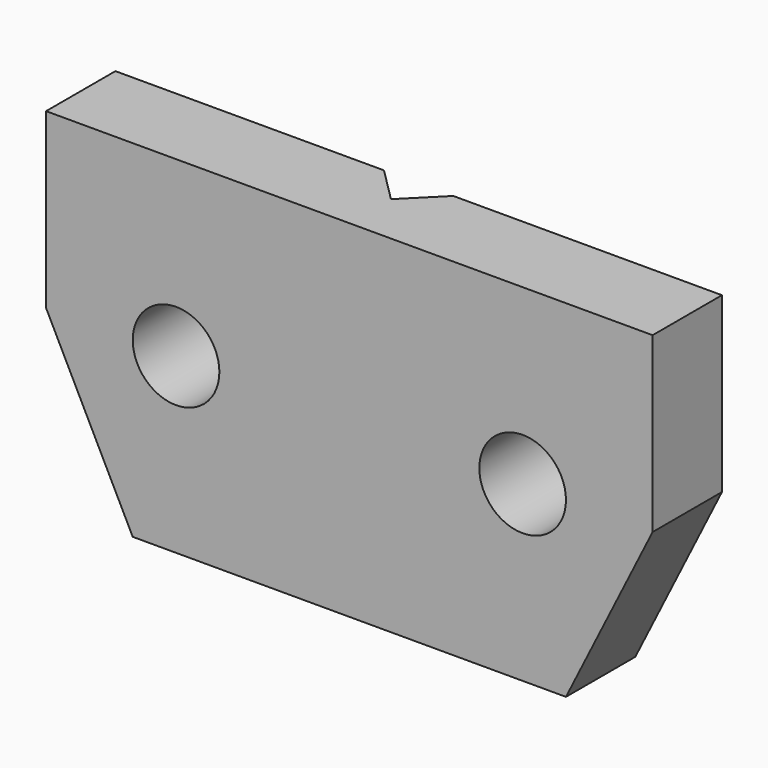
from build123d import *

# Parameters (mm, degrees)
SKETCH002_R      = 2.5
EXTRUDE002_DEPTH = 5
EXTRUDE001_DEPTH = 20
EXTRUDE_DEPTH    = 5


with BuildPart() as extrude002:
    # Sketch002 (on Cut) → Extrude002 (new body)
    with BuildSketch(Plane.XZ):
        with Locations((27.5, 10)):
            Circle(SKETCH002_R)
        with Locations((7.5, 10)):
            Circle(SKETCH002_R)
    extrude(amount=EXTRUDE002_DEPTH)


with BuildPart() as extrude001:
    # Sketch001 (on Extrude) → Extrude001 (new body)
    with BuildSketch(Plane.XY):
        Polygon((15.5, 0), (17.5, -2), (19.5, 0), align=None)
    extrude(amount=EXTRUDE001_DEPTH)


with BuildPart() as cut001:
    # Sketch → Extrude (new body)
    with BuildSketch(Plane.XZ):
        Polygon((0, 10), (5, 0), (30, 0), (35, 10), (35, 20), (0, 20), align=None)
    extrude(amount=EXTRUDE_DEPTH)

    # Cut: cut Extrude001
    add(extrude001.part, mode=Mode.SUBTRACT)

    # Cut001: cut Extrude002
    add(extrude002.part, mode=Mode.SUBTRACT)


solid = cut001.part
